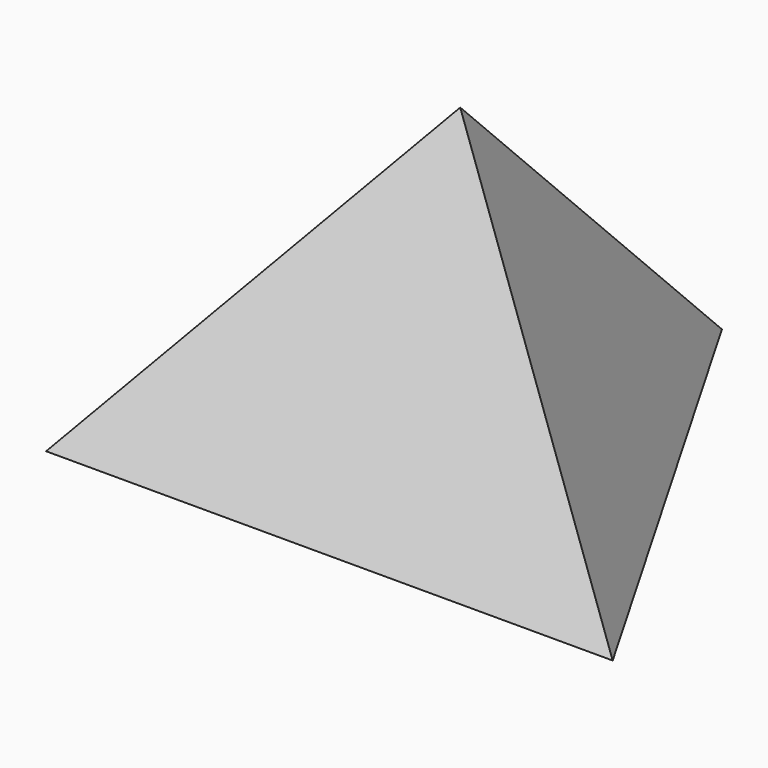
from build123d import *


with BuildPart() as f3:
    # F0 (on Top) → F3 section 0
    with BuildSketch(Plane.XY, mode=Mode.PRIVATE) as f3_s0:
        Polygon((86.294395, -49.822092), (0, 99.644184), (-86.294395, -49.822092), align=None)
    loft([f3_s0.sketch, Vertex(0, 0, 100)])


solid = f3.part
